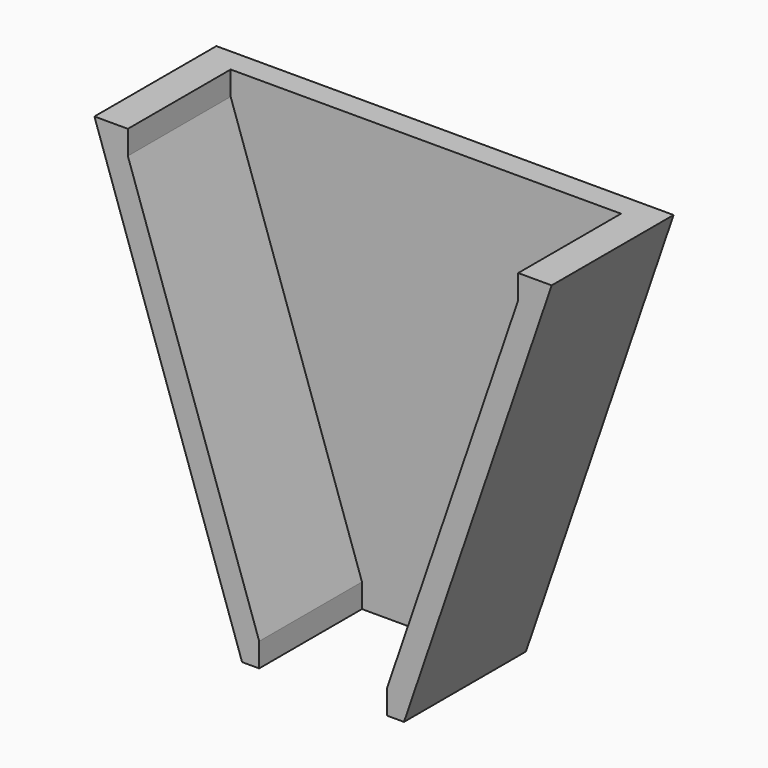
from build123d import *

# Parameters (mm, degrees)
F1_DEPTH = 25.4
F2_T     = -3.9878
F3_DEPTH = 3.9878
F4_DEPTH = 3.9878


with BuildPart() as f1:
    # F0 (on Front) → F1 (new body)
    with BuildSketch(Plane.XZ):
        Polygon((0, -32.8910034207), (13.49375, -32.8910034207), (38.1, 39.1559594118), (0, 39.1559594118), (-38.1, 39.1559594118), (-13.49375, -32.8910034207), align=None)
    extrude(amount=F1_DEPTH)

    # F2
    f2_openings = [f1.faces().sort_by_distance(p)[0] for p in [
        (0, -25.4, 8.859288),
    ]]
    offset(amount=F2_T, openings=f2_openings)

    # F3 (cut, through all): a face of the model
    f3_faces = [f1.faces().sort_by_distance(p)[0] for p in [
        (0, -14.6939, -28.9032034207),
    ]]
    extrude(f3_faces, amount=-F3_DEPTH, mode=Mode.SUBTRACT)

    # F4 (cut, through all): a face of the model
    f4_faces = [f1.faces().sort_by_distance(p)[0] for p in [
        (0, -14.6939, 35.1681594118),
    ]]
    extrude(f4_faces, amount=-F4_DEPTH, mode=Mode.SUBTRACT)


solid = f1.part
